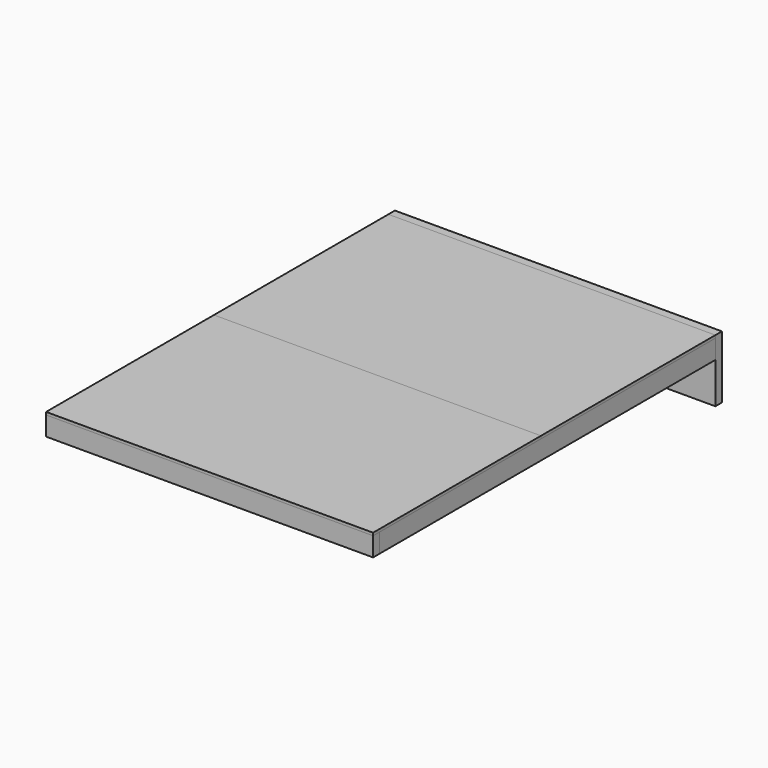
from build123d import *

# Parameters (mm, degrees)
F0_W      = 1524
F0_H      = 292.1
F1_DEPTH  = 38.1
F2_W      = 38.1
F2_H      = 190.5
F3_DEPTH  = 1651
F5_W      = 38.1
F5_H      = 190.5
F6_DEPTH  = 914.4
F7_W      = 38.1
F7_H      = 88.9
F8_DEPTH  = 1955.8
F10_W     = 38.1
F10_H     = 88.9
F11_DEPTH = 1524
F12_W     = 38.1
F12_H     = 88.9
F13_DEPTH = 431.8
F15_W     = 38.1
F15_H     = 88.9
F16_DEPTH = 431.8
F17_W     = 38.1
F17_H     = 88.9
F18_DEPTH = 1447.8
F19_W     = 88.9
F19_H     = 38.1
F20_DEPTH = 1447.8
F21_W     = 38.1
F21_H     = 88.9
F22_DEPTH = 1447.8
F23_W     = 88.9
F23_H     = 38.1
F24_DEPTH = 1447.8
F25_W     = 38.1
F25_H     = 88.9
F26_DEPTH = 1447.8
F27_W     = 38.1
F27_H     = 88.9
F28_DEPTH = 1447.8
F29_W     = 1524
F29_H     = 977.9
F30_DEPTH = 12.7
F31_W     = 1524
F31_H     = 1016
F32_DEPTH = 12.7


with BuildPart() as f1:
    # F0 (on Front) → F1 (new body)
    with BuildSketch(Plane.XZ):
        with Locations((0, 146.05)):
            Rectangle(F0_W, F0_H)
    extrude(amount=F1_DEPTH)


with BuildPart() as f3:
    # F2 (on face) → F3 (new body)
    with BuildSketch(Plane.XZ.offset(38.1)):
        with Locations((438.15, 95.25)):
            Rectangle(F2_W, F2_H)
    extrude(amount=F3_DEPTH)


with BuildPart() as f4_1:
    # F4: instance of F3
    add(f3.part.mirror(Plane.YZ))


with BuildPart() as f6:
    # F5 (on face) → F6 (new body)
    with BuildSketch(Plane.YZ.offset(457.2)):
        with Locations((-1708.15, 95.25)):
            Rectangle(F5_W, F5_H)
    extrude(amount=-F6_DEPTH)


with BuildPart() as f8:
    # F7 (on face) → F8 (new body)
    with BuildSketch(Plane.XZ.offset(38.1)):
        with Locations((-742.95, 234.95)):
            Rectangle(F7_W, F7_H)
    extrude(amount=F8_DEPTH)


with BuildPart() as f9_1:
    # F9: instance of F8
    add(f8.part.mirror(Plane.YZ))


with BuildPart() as f11:
    # F10 (on face) → F11 (new body)
    with BuildSketch(Plane.YZ.offset(762)):
        with Locations((-2012.95, 234.95)):
            Rectangle(F10_W, F10_H)
    extrude(amount=-F11_DEPTH)


with BuildPart() as f13:
    # F12 (on face) → F13 (new body)
    with BuildSketch(Plane(origin=(0, -1993.9, 0), x_dir=(-1, 0, 0), z_dir=(0, 1, 0))):
        with Locations((-438.15, 234.95)):
            Rectangle(F12_W, F12_H)
    extrude(amount=F13_DEPTH)


with BuildPart() as f14_1:
    # F14: instance of F13
    add(f13.part.mirror(Plane.YZ))


with BuildPart() as f16:
    # F15 (on face) → F16 (new body)
    with BuildSketch(Plane(origin=(0, -1993.9, 0), x_dir=(-1, 0, 0), z_dir=(0, 1, 0))):
        with Locations((0, 234.95)):
            Rectangle(F15_W, F15_H)
    extrude(amount=F16_DEPTH)


with BuildPart() as f18:
    # F17 (on face) → F18 (new body)
    with BuildSketch(Plane.YZ.offset(-723.9)):
        with Locations((-1543.05, 234.95)):
            Rectangle(F17_W, F17_H)
    extrude(amount=F18_DEPTH)


with BuildPart() as f20:
    # F19 (on face) → F20 (new body)
    with BuildSketch(Plane.YZ.offset(-723.9)):
        with Locations((-1054.1, 260.35)):
            Rectangle(F19_W, F19_H)
    extrude(amount=F20_DEPTH)


with BuildPart() as f22:
    # F21 (on face) → F22 (new body)
    with BuildSketch(Plane.YZ.offset(-723.9)):
        with Locations((-1117.6, 234.95)):
            Rectangle(F21_W, F21_H)
    extrude(amount=F22_DEPTH)


with BuildPart() as f24:
    # F23 (on face) → F24 (new body)
    with BuildSketch(Plane.YZ.offset(-723.9)):
        with Locations((-82.55, 260.35)):
            Rectangle(F23_W, F23_H)
    extrude(amount=F24_DEPTH)


with BuildPart() as f26:
    # F25 (on face) → F26 (new body)
    with BuildSketch(Plane.YZ.offset(-723.9)):
        with Locations((-800.1, 234.95)):
            Rectangle(F25_W, F25_H)
    extrude(amount=F26_DEPTH)


with BuildPart() as f28:
    # F27 (on face) → F28 (new body)
    with BuildSketch(Plane.YZ.offset(-723.9)):
        with Locations((-419.1, 234.95)):
            Rectangle(F27_W, F27_H)
    extrude(amount=F28_DEPTH)


with BuildPart() as f30:
    # F29 (on face) → F30 (new body)
    with BuildSketch(Plane.XY.offset(279.4)):
        with Locations((0, -1543.05)):
            Rectangle(F29_W, F29_H)
    extrude(amount=F30_DEPTH)


with BuildPart() as f32:
    # F31 (on face) → F32 (new body)
    with BuildSketch(Plane.XY.offset(279.4)):
        with Locations((0, -546.1)):
            Rectangle(F31_W, F31_H)
    extrude(amount=F32_DEPTH)


solid = Compound([f1.part, f3.part, f4_1.part, f6.part, f8.part, f9_1.part, f11.part, f13.part, f14_1.part, f16.part, f18.part, f20.part, f22.part, f24.part, f26.part, f28.part, f30.part, f32.part])
